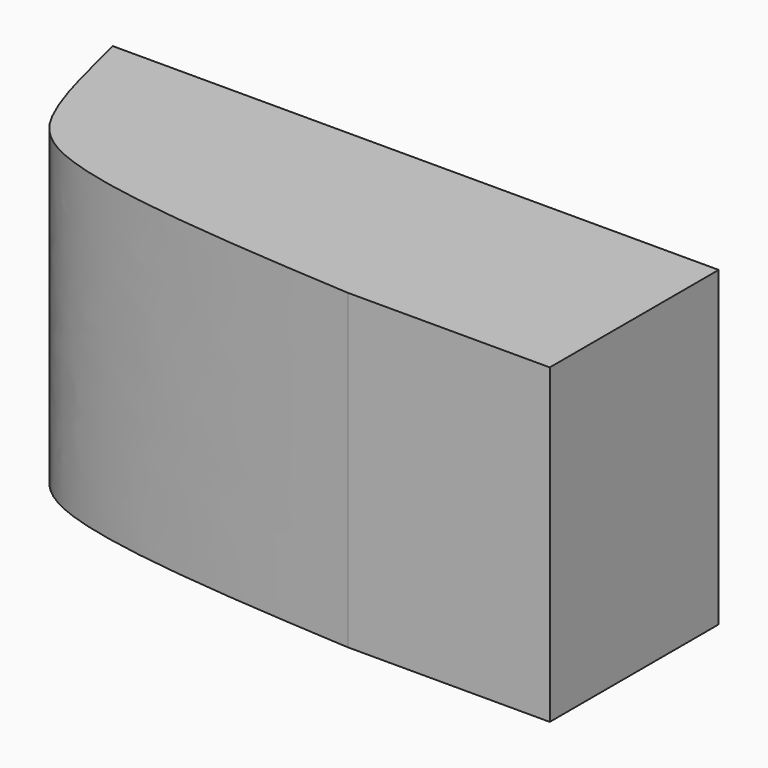
from build123d import *

# Parameters (mm, degrees)
F1_DEPTH = 863.6


with BuildPart() as f1:
    # F0 (on Top) → F1 (new body)
    with BuildSketch(Plane.XY):
        with BuildLine():
            Line((0, -584.2), (0, 0))
            Line((0, 0), (-1676.4, 0))
            add(Edge.make_bspline(
                [(-1676.4, 0), (-1648.0667786481, -116.8941252034), (-1601.2085232209, -318.5450980783), (-1451.1595918226, -520.2415996125), (-947.6650302188, -560.3005434453), (-558.8, -584.2)],
                knots=[0, 0, 0, 0, 0.2900507363, 0.5178292037, 1, 1, 1, 1], degree=3))
            Line((-558.8, -584.2), (0, -584.2))
        make_face()
    extrude(amount=F1_DEPTH)


solid = f1.part
